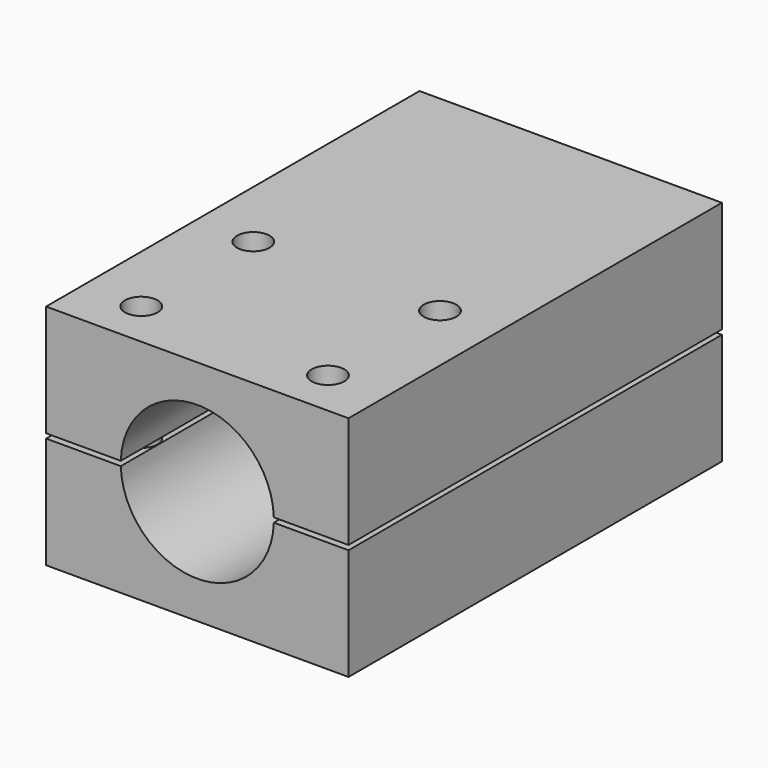
from build123d import *

# Parameters (mm, degrees)
F1_DEPTH = 25
F2_W     = 32.4
F2_H     = 11.95
F3_DEPTH = 25
F4_W     = 32.4
F4_H     = 11.95
F5_DEPTH = 25
F6_R     = 1.75
F7_DEPTH = 24.4


with BuildPart() as f1:
    # F0 (on Front) → F1 (new body)
    with BuildSketch(Plane.XZ):
        with BuildLine():
            ThreePointArc((8.196188, -0.25), (0, -8.2), (-8.196188, -0.25))
            Line((-8.196188, -0.25), (-16.2, -0.25))
            Line((-16.2, -0.25), (-16.2, -12.2))
            Line((-16.2, -12.2), (16.2, -12.2))
            Line((16.2, -12.2), (16.2, -0.25))
            Line((16.2, -0.25), (8.196188, -0.25))
        make_face()
        with BuildLine():
            Line((16.2, 0.25), (16.2, 12.2))
            Line((16.2, 12.2), (-16.2, 12.2))
            Line((-16.2, 12.2), (-16.2, 0.25))
            Line((-16.2, 0.25), (-8.196188, 0.25))
            ThreePointArc((-8.196188, 0.25), (0, 8.2), (8.196188, 0.25))
            Line((8.196188, 0.25), (16.2, 0.25))
        make_face()
    extrude(amount=F1_DEPTH)

    # F2 (on face) → F3 (join)
    with BuildSketch(Plane(origin=(0, 0, 0), x_dir=(-1, 0, 0), z_dir=(0, 1, 0))):
        with Locations((0, 6.225)):
            Rectangle(F2_W, F2_H)
    extrude(amount=F3_DEPTH)

    # F4 (on face) → F5 (join)
    with BuildSketch(Plane(origin=(0, 0, 0), x_dir=(-1, 0, 0), z_dir=(0, 1, 0))):
        with Locations((0, -6.225)):
            Rectangle(F4_W, F4_H)
    extrude(amount=F5_DEPTH)

    # F6 (on face) → F7 (cut, through all)
    with BuildSketch(Plane.XY.offset(12.2)):
        with Locations((10, -5)):
            Circle(F6_R)
        with Locations((-10, -5)):
            Circle(F6_R)
        with Locations((-10, -20)):
            Circle(F6_R)
        with Locations((10, -20)):
            Circle(F6_R)
    extrude(amount=-F7_DEPTH, mode=Mode.SUBTRACT)


solid = f1.part
